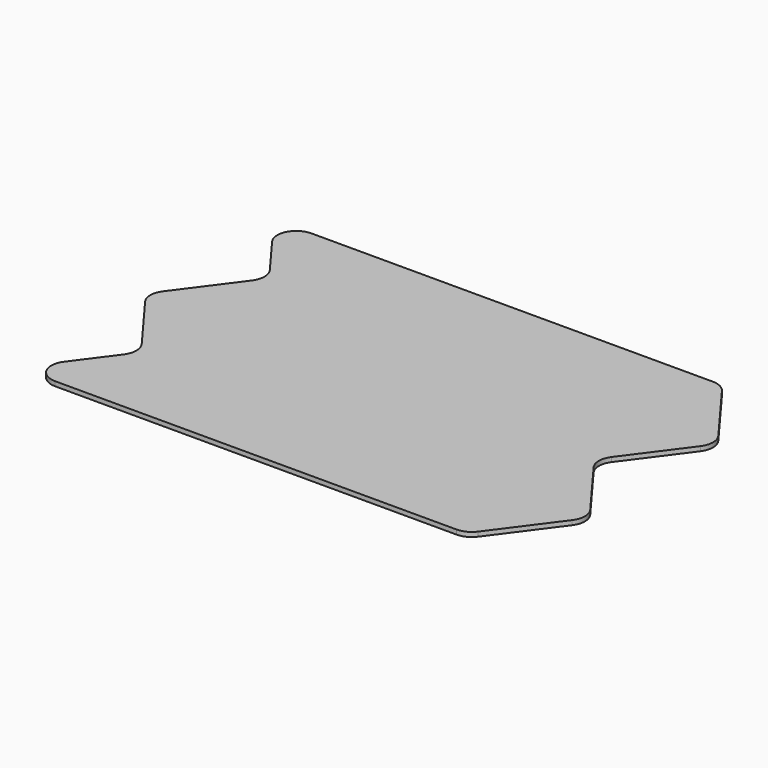
from build123d import *

# Parameters (mm, degrees)
F1_DEPTH = 0.76
F2_R     = 3.18


with BuildPart() as f1:
    # F0 (on Top) → F1 (new body)
    with BuildSketch(Plane.XY):
        Polygon((85.6, 40.485), (75.6, 53.98), (0, 53.98), (10, 40.485), (0, 26.99), (10, 13.495), (0, 0), (75.6, 0), (85.6, 13.495), (75.6, 26.99), align=None)
    extrude(amount=F1_DEPTH)

    # F2
    f2_edges = [f1.edges().sort_by_distance(p)[0] for p in [
        (0, 53.98, 0.38),
        (10, 40.485, 0.38),
        (0, 26.99, 0.38),
        (10, 13.495, 0.38),
        (0, 0, 0.38),
        (75.6, 53.98, 0.38),
        (85.6, 40.485, 0.38),
        (75.6, 26.99, 0.38),
        (85.6, 13.495, 0.38),
        (75.6, 0, 0.38),
    ]]
    fillet(f2_edges, radius=F2_R)


solid = f1.part
